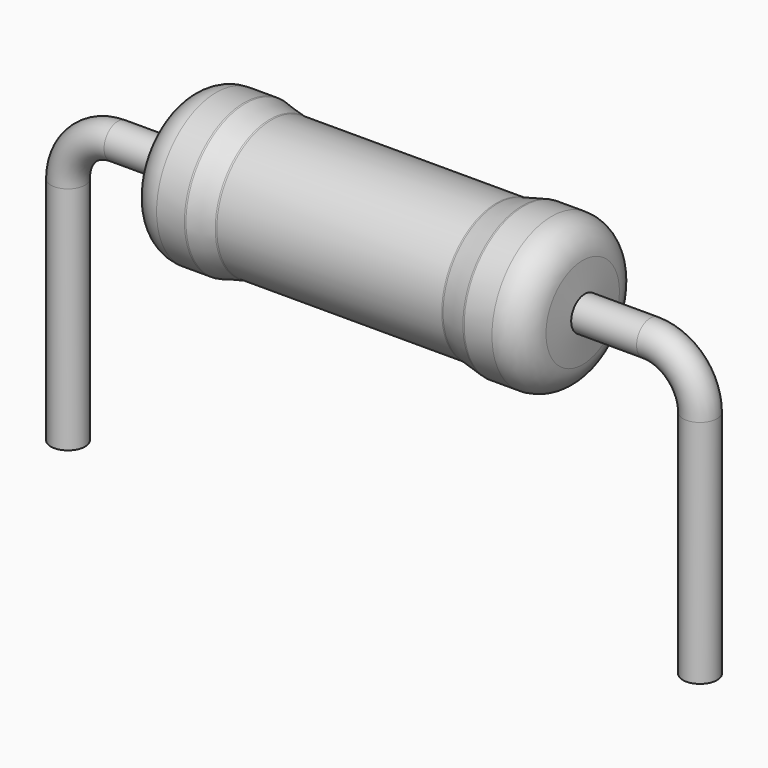
from build123d import *

# Parameters (mm, degrees)
F3_R = 0.275


with BuildPart() as f1:
    # F0 (on Top) → F1 (revolve)
    with BuildSketch(Plane.XY):
        with BuildLine():
            Line((-3.1939512269, 0.7378709646), (-3.25, 0))
            Line((-3.25, 0), (0, 0))
            Line((0, 0), (0, 1.1))
            Line((0, 1.1), (-1.8078035141, 1.1))
            ThreePointArc((-1.8078035141, 1.1), (-1.8195402238, 1.1006911401), (-1.8311146993, 1.1027550071))
            Line((-1.8311146993, 1.1027550071), (-2.2252893382, 1.1972449929))
            ThreePointArc((-2.2252893382, 1.1972449929), (-2.2368638136, 1.1993088599), (-2.2486005233, 1.2))
            Line((-2.2486005233, 1.2), (-2.6953874998, 1.2))
            ThreePointArc((-2.6953874998, 1.2), (-3.0352878658, 1.0666984335), (-3.1939512269, 0.7378709646))
        make_face()
    revolve(axis=Axis((-1.625, 0, 0), (-1, 0, 0)))

    # F2: F1 across face


with BuildPart() as f1_1:
    add(f1.part)
    add(f1.part.mirror(Plane.YZ))



with BuildPart() as f5:
    # F5: sweep along a path in F4
    with BuildLine(Plane.XZ) as f5_path:
        Line((0, 0), (4.28, 0))
        ThreePointArc((4.28, 0), (4.8456854249, -0.2343145751), (5.08, -0.8))
        Line((5.08, -0.8), (5.08, -4.5))
    # F3 (on Right) → F5 (sweep)
    with BuildSketch(Plane.YZ):
        Circle(F3_R)
    sweep(path=f5_path.line)


with BuildPart() as f1_2:
    add(f1_1.part)

    add(f5.part)  # F6 merges F5
    # F6: F5 across plane
    add(f5.part.mirror(Plane.YZ))


solid = f1_2.part
